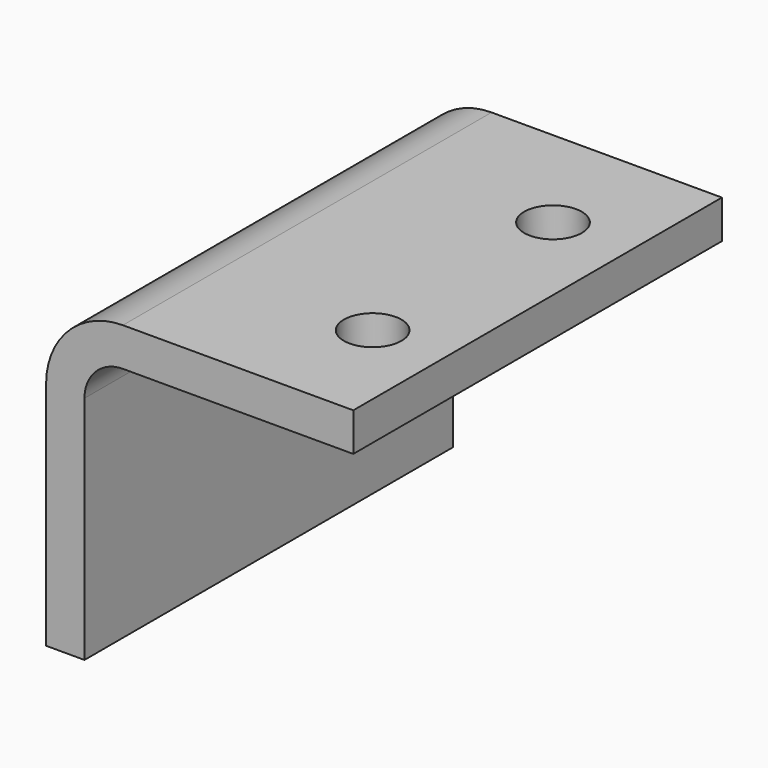
from build123d import *

# Parameters (mm, degrees)
F1_DEPTH = 38.1
F2_R     = 2.38125
F3_DEPTH = 25.4


with BuildPart() as f1:
    # F0 (on Front) → F1 (new body)
    with BuildSketch(Plane.XZ):
        with BuildLine():
            Line((0, 19.05), (0, 0))
            Line((0, 0), (3.175, 0))
            Line((3.175, 0), (3.175, 19.05))
            ThreePointArc((3.175, 19.05), (4.104936, 21.295064), (6.35, 22.225))
            Line((6.35, 22.225), (25.4, 22.225))
            Line((25.4, 22.225), (25.4, 25.4))
            Line((25.4, 25.4), (6.35, 25.4))
            ThreePointArc((6.35, 25.4), (1.859872, 23.540128), (0, 19.05))
        make_face()
    extrude(amount=F1_DEPTH)

    # F2 (on face) → F3 (cut)
    with BuildSketch(Plane.XY.offset(25.4)):
        with Locations((19.05, -9.525)):
            Circle(F2_R)
        with Locations((19.381254, -28.57212)):
            Circle(F2_R)
    extrude(amount=-F3_DEPTH, mode=Mode.SUBTRACT)


solid = f1.part
